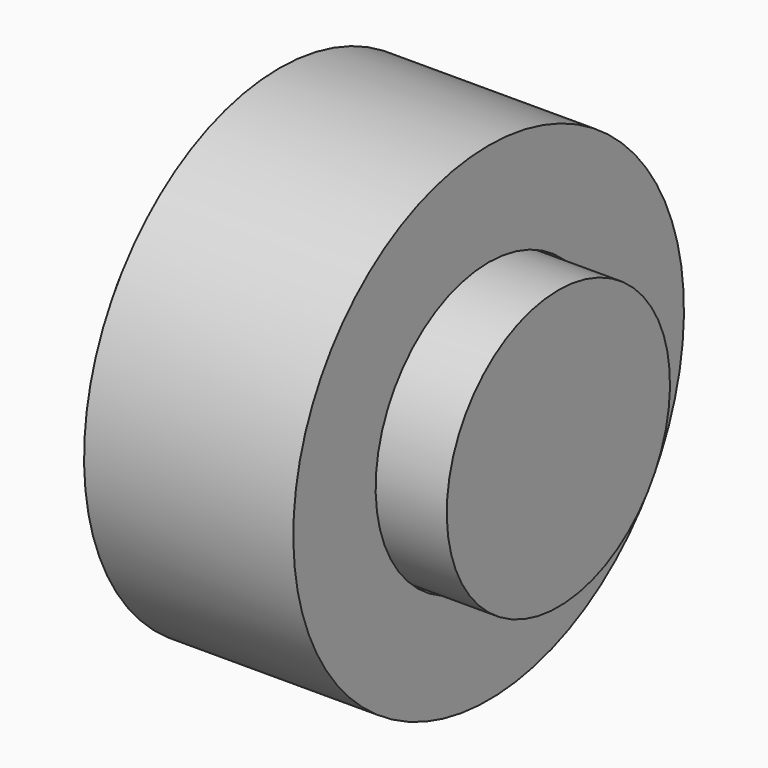
from build123d import *

# Parameters (mm, degrees)
F0_W = 100
F0_H = 40


with BuildPart() as f1:
    # F0 (on Front) → F1 (revolve)
    with BuildSketch(Plane.XZ):
        with Locations((0, 20)):
            Rectangle(F0_W, F0_H)
        Polygon((-30, 70), (-30, 41), (-20, 41), (-20, 60), (10, 60), (10, 40.5), (30, 40.5), (30, 70), align=None)
    revolve(axis=Axis((-67.157046, 0, 0), (-1, 0, 0)))


solid = f1.part
